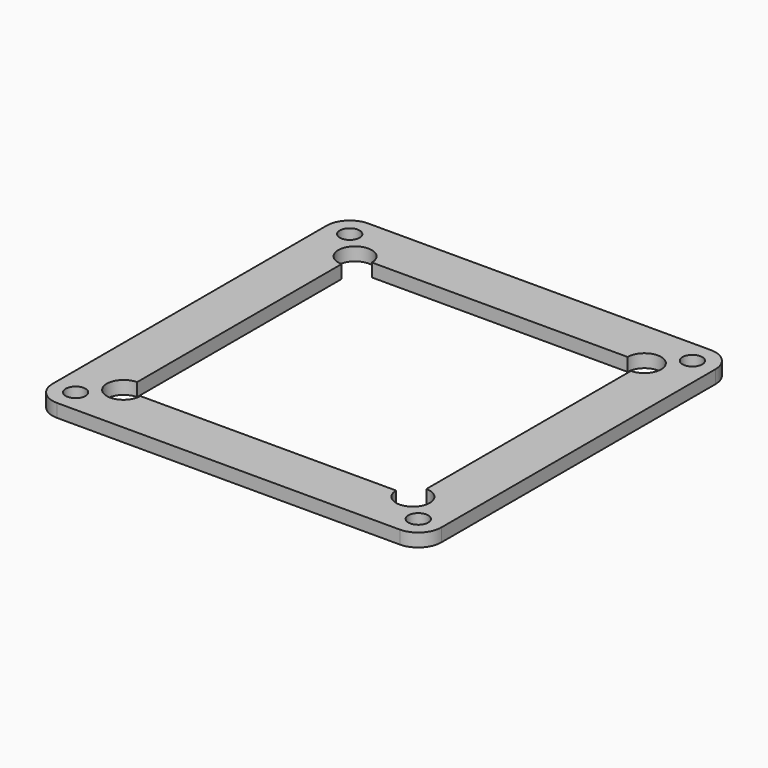
from build123d import *

# Parameters (mm, degrees)
PAD017_DEPTH          = 4
SKETCH037_R           = 5.1
POCKET015_DEPTH       = 5
POLARPATTERN010_COUNT = 4
SKETCH038_W           = 87.800004
SKETCH038_H           = 87.800004
POCKET016_DEPTH       = 5
SKETCH039_R           = 3
POCKET017_DEPTH       = 337.8512658378
POLARPATTERN011_COUNT = 4


with BuildPart() as part:
    # Sketch036 → Pad017 (new body)
    with BuildSketch(Plane.XY):
        with BuildLine():
            Line((-59, 52), (-59, -52))
            ThreePointArc((-59, -52), (-56.9497474683, -56.9497474683), (-52, -59))
            Line((-52, -59), (52, -59))
            ThreePointArc((52, -59), (56.9497474683, -56.9497474683), (59, -52))
            Line((59, -52), (59, 52))
            ThreePointArc((59, 52), (56.9497474683, 56.9497474683), (52, 59))
            Line((52, 59), (-52, 59))
            ThreePointArc((-52, 59), (-56.9497474683, 56.9497474683), (-59, 52))
        make_face()
    extrude(amount=PAD017_DEPTH)

    # Sketch037 → Pocket015 (cut)
    with BuildSketch(Plane.XY):
        with Locations((-43.9, 43.9)):
            Circle(SKETCH037_R)
    pocket015 = extrude(amount=POCKET015_DEPTH, mode=Mode.SUBTRACT)

    # PolarPattern010: Pocket015 ×4 about axis
    polarpattern010_axis = Axis((0, 0, 0), (0, 0, 1))
    for i in range(1, POLARPATTERN010_COUNT):
        add(pocket015.rotate(polarpattern010_axis, i * 360 / POLARPATTERN010_COUNT), mode=Mode.SUBTRACT)

    # Sketch038 (on Face5 of PolarPattern010) → Pocket016 (cut)
    with BuildSketch(Plane.XY.offset(4)):
        Rectangle(SKETCH038_W, SKETCH038_H)
    extrude(amount=-POCKET016_DEPTH, mode=Mode.SUBTRACT)

    # Sketch039 (on Face5 of Pocket016) → Pocket017 (cut, through all)
    with BuildSketch(Plane.XY.offset(4)):
        with Locations((-52, 52)):
            Circle(SKETCH039_R)
    pocket017 = extrude(amount=-POCKET017_DEPTH, mode=Mode.SUBTRACT)

    # PolarPattern011: Pocket017 ×4 about axis
    polarpattern011_axis = Axis((0, 0, 4), (0, 0, 1))
    for i in range(1, POLARPATTERN011_COUNT):
        add(pocket017.rotate(polarpattern011_axis, i * 360 / POLARPATTERN011_COUNT), mode=Mode.SUBTRACT)


with BuildPart() as part_1:
    # Body006 placement: moved
    add(part.part.moved(Location((0, 0, 42.1))))


solid = part_1.part
